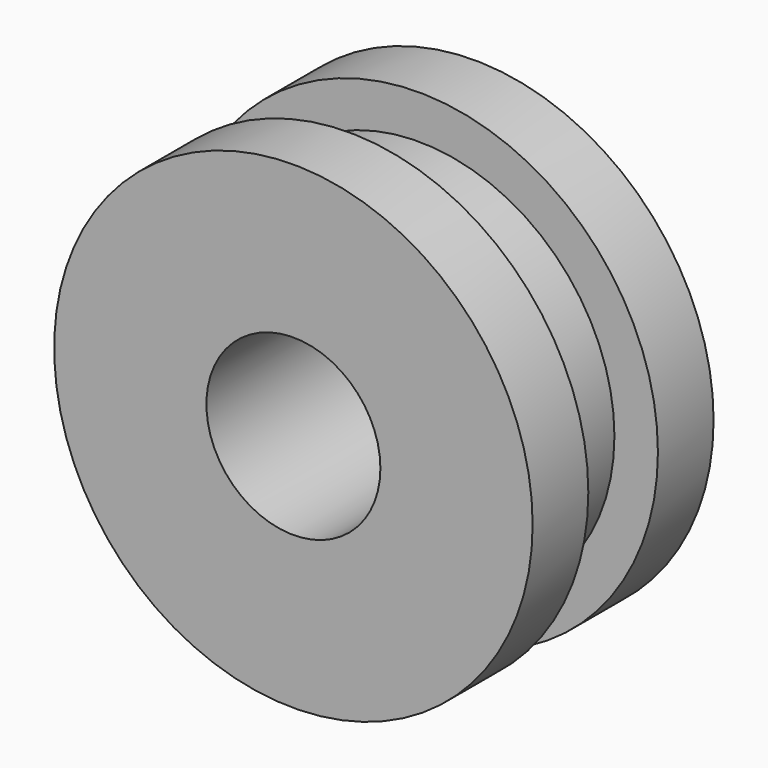
from build123d import *

# Parameters (mm, degrees)
F0_R     = 6.985
F1_DEPTH = 2.032
F2_R     = 5.715
F3_DEPTH = 2.54
F4_R     = 6.985
F5_DEPTH = 2.032
F6_R     = 2.54
F7_DEPTH = 12.7


with BuildPart() as f1:
    # F0 (on Front) → F1 (new body)
    with BuildSketch(Plane.XZ):
        Circle(F0_R)
    extrude(amount=F1_DEPTH)

    # F2 (on face) → F3 (join)
    with BuildSketch(Plane.XZ.offset(2.032)):
        Circle(F2_R)
    extrude(amount=F3_DEPTH)

    # F4 (on face) → F5 (join)
    with BuildSketch(Plane.XZ.offset(4.572)):
        Circle(F4_R)
    extrude(amount=F5_DEPTH)

    # F6 (on face) → F7 (cut, symmetric)
    with BuildSketch(Plane.XZ.offset(6.604)):
        Circle(F6_R)
    extrude(amount=F7_DEPTH, both=True, mode=Mode.SUBTRACT)


solid = f1.part
